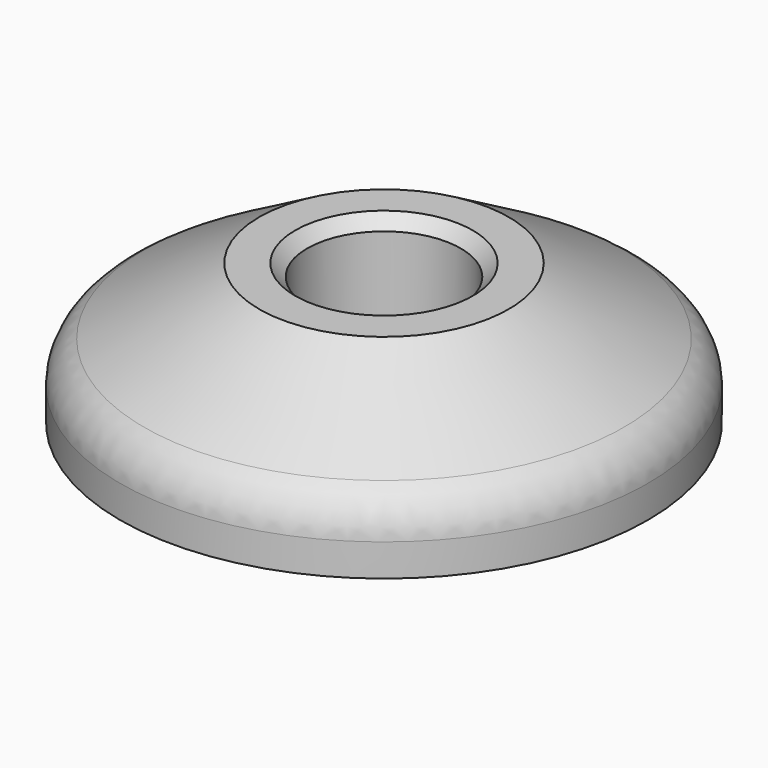
from build123d import *

# Parameters (mm, degrees)
F2_R    = 2
F3_SIZE = 0.5


with BuildPart() as f1:
    # F0 (on Front) → F1 (revolve)
    with BuildSketch(Plane.XZ):
        Polygon((-11, 0), (-3.2, 0), (-3.2, 5.848632), (-5.2, 5.848632), (-11, 2.5), align=None)
    revolve(axis=Axis((0, 0, 13.586091), (0, 0, 1)))

    # F2
    f2_edges = [f1.edges().sort_by_distance(p)[0] for p in [
        (11, 0, 2.5),
    ]]
    fillet(f2_edges, radius=F2_R)

    # F3
    f3_edges = [f1.edges().sort_by_distance(p)[0] for p in [
        (3.2, 0, 5.848632),
    ]]
    chamfer(f3_edges, length=F3_SIZE)


solid = f1.part
